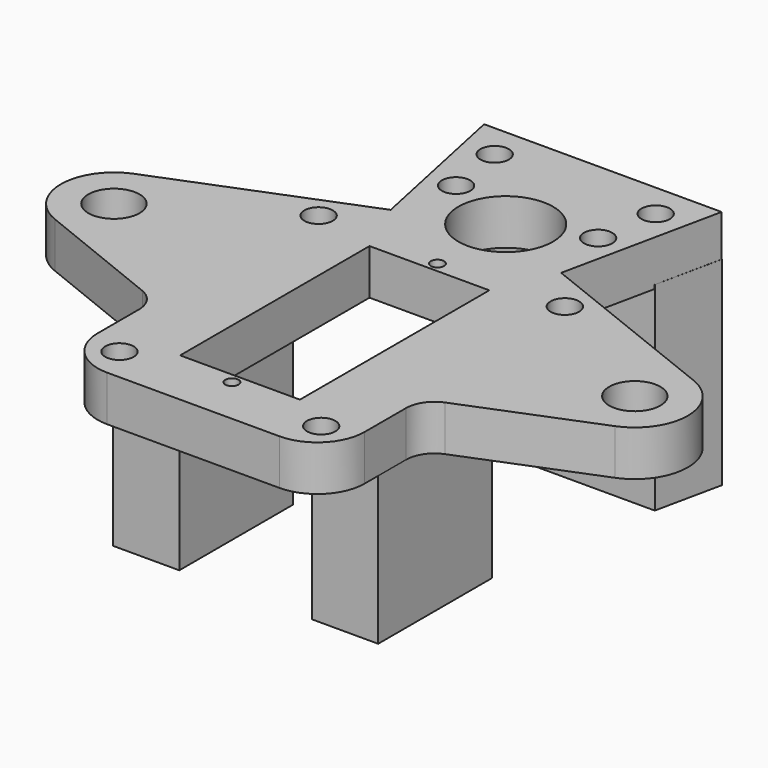
from build123d import *

# Parameters (mm, degrees)
CYLINDER043_R     = 1.5
CYLINDER043_DEPTH = 27
CYLINDER042_R     = 1.5
CYLINDER042_DEPTH = 27
SKETCH012_R       = 5
PAD007_DEPTH      = 30
CYLINDER029_R     = 1.5
CYLINDER029_DEPTH = 10
CYLINDER030_R     = 1.5
CYLINDER030_DEPTH = 10
CYLINDER031_R     = 1.5
CYLINDER031_DEPTH = 10
CYLINDER032_R     = 1.5
CYLINDER032_DEPTH = 11
CYLINDER033_R     = 1.5
CYLINDER033_DEPTH = 11
CYLINDER028_R     = 1.5
CYLINDER028_DEPTH = 10
BOX007_W          = 7
BOX007_H          = 15
BOX007_DEPTH      = 18
PAD006_DEPTH      = 21
BOX006_W          = 7
BOX006_H          = 15
BOX006_DEPTH      = 18
SKETCH016_R       = 2.7
SKETCH016_R_2     = 1.5
SKETCH016_R_3     = 5
SKETCH016_R_4     = 0.7
SKETCH016_W       = 12.65
SKETCH016_H       = 25
PAD009_DEPTH      = 4.8


with BuildPart() as taladro016:
    # Cylinder043 → Cylinder043 (new body)
    with BuildSketch(Plane(origin=(8.5, 26.5, -1.7), x_dir=(1, 0, 0), z_dir=(0, 0, 1))):
        Circle(CYLINDER043_R)
    extrude(amount=CYLINDER043_DEPTH)


with BuildPart() as seg_taladros_a:
    # Cylinder042 → Cylinder042 (new body)
    with BuildSketch(Plane(origin=(-8.5, 26.5, -1.7), x_dir=(1, 0, 0), z_dir=(0, 0, 1))):
        Circle(CYLINDER042_R)
    extrude(amount=CYLINDER042_DEPTH)

    # Fusion021: union Taladro016
    add(taladro016.part)


with BuildPart() as taladro_8mm:
    # Sketch012 → Pad007 (new body)
    with BuildSketch(Plane(origin=(0, 38, 3), x_dir=(1, 0, 0), z_dir=(0, -1, 0))):
        with Locations((0, 10.102227)):
            Circle(SKETCH012_R)
    extrude(amount=PAD007_DEPTH)


with BuildPart() as taladro002:
    # Cylinder029 → Cylinder029 (new body)
    with BuildSketch(Plane(origin=(-10.5, -14, 2.3), x_dir=(1, 0, 0), z_dir=(0, 0, 1))):
        Circle(CYLINDER029_R)
    extrude(amount=CYLINDER029_DEPTH)


with BuildPart() as taladro003:
    # Cylinder030 → Cylinder030 (new body)
    with BuildSketch(Plane(origin=(10.5, -5, 2.3), x_dir=(1, 0, 0), z_dir=(0, 0, 1))):
        Circle(CYLINDER030_R)
    extrude(amount=CYLINDER030_DEPTH)


with BuildPart() as taladro004:
    # Cylinder031 → Cylinder031 (new body)
    with BuildSketch(Plane(origin=(10.5, -14, 2.3), x_dir=(1, 0, 0), z_dir=(0, 0, 1))):
        Circle(CYLINDER031_R)
    extrude(amount=CYLINDER031_DEPTH)


with BuildPart() as taladro005:
    # Cylinder032 → Cylinder032 (new body)
    with BuildSketch(Plane(origin=(-8.5, 26.5, -1.7), x_dir=(1, 0, 0), z_dir=(0, 0, 1))):
        Circle(CYLINDER032_R)
    extrude(amount=CYLINDER032_DEPTH)


with BuildPart() as taladro006:
    # Cylinder033 → Cylinder033 (new body)
    with BuildSketch(Plane(origin=(8.5, 26.5, -1.7), x_dir=(1, 0, 0), z_dir=(0, 0, 1))):
        Circle(CYLINDER033_R)
    extrude(amount=CYLINDER033_DEPTH)


with BuildPart() as taladros_a:
    # Cylinder028 → Cylinder028 (new body)
    with BuildSketch(Plane(origin=(-10.5, -5, 2.3), x_dir=(1, 0, 0), z_dir=(0, 0, 1))):
        Circle(CYLINDER028_R)
    extrude(amount=CYLINDER028_DEPTH)

    # Fusion014: union Taladro002, Taladro003, Taladro004, Taladro005, Taladro006
    add(taladro002.part)
    add(taladro003.part)
    add(taladro004.part)
    add(taladro005.part)
    add(taladro006.part)


with BuildPart() as taladros_a_1:
    # Fusion014 placement: moved
    add(taladros_a.part.moved(Location((0, 0, 1))))


with BuildPart() as cubo007:
    # Box007 → Box007 (new body)
    with BuildSketch(Plane(origin=(7, -17, 3.3), x_dir=(1, 0, 0), z_dir=(0, 0, 1))):
        with Locations((3.5, 7.5)):
            Rectangle(BOX007_W, BOX007_H)
    extrude(amount=BOX007_DEPTH)


with BuildPart() as pad006:
    # Sketch011 → Pad006 (new body)
    with BuildSketch(Plane.XY.offset(-1.6)):
        Polygon((-12.559899, 30.171141), (12.559899, 30.171141), (11.070948, 23.171141), (-11.070948, 23.171141), align=None)
    extrude(amount=PAD006_DEPTH)


with BuildPart() as cut009:
    # Box006 → Box006 (new body)
    with BuildSketch(Plane(origin=(-14, -17, 3.3), x_dir=(1, 0, 0), z_dir=(0, 0, 1))):
        with Locations((3.5, 7.5)):
            Rectangle(BOX006_W, BOX006_H)
    extrude(amount=BOX006_DEPTH)

    # Fusion016: union Cubo007, Pad006
    add(cubo007.part)
    add(pad006.part)

    # Cut007: cut Taladros A
    add(taladros_a_1.part, mode=Mode.SUBTRACT)

    # Cut009: cut Taladro 8mm
    add(taladro_8mm.part, mode=Mode.SUBTRACT)


with BuildPart() as cut010:
    # Sketch016 → Pad009 (new body)
    with BuildSketch(Plane.XY.offset(19)):
        with BuildLine():
            Line((-29.572856, 5.202237), (-9, 13.39959))
            Line((-9, 13.39959), (-12.540941, 30.154421))
            Line((-12.540941, 30.154421), (12.540941, 30.154421))
            Line((9, 13.39959), (12.540941, 30.154421))
            Line((9, 13.39959), (29.570667, 5.203109))
            ThreePointArc((29.587798, -5.196258), (33.099992, 0.009225), (29.570667, 5.203109))
            Line((29.587798, -5.196258), (15.980248, -10.663617))
            ThreePointArc((15.980248, -10.663617), (14.613214, -11.767355), (14.098711, -13.447327))
            Line((14.098711, -13.447327), (14.098711, -18.900571))
            ThreePointArc((9.098711, -23.900571), (12.634245, -22.436105), (14.098711, -18.900571))
            Line((9.098711, -23.900571), (-9.098711, -23.900571))
            ThreePointArc((-14.098711, -18.900571), (-12.634245, -22.436105), (-9.098711, -23.900571))
            Line((-14.098711, -18.900571), (-14.098711, -13.447327))
            ThreePointArc((-14.098711, -13.447327), (-14.613214, -11.767355), (-15.980248, -10.663617))
            Line((-15.980248, -10.663617), (-29.587798, -5.196258))
            ThreePointArc((-29.572856, 5.202237), (-33.099994, 0.008047), (-29.587798, -5.196258))
        make_face()
        with Locations((27.5, 0)):
            Circle(SKETCH016_R, mode=Mode.SUBTRACT)
        with Locations((-27.5, 0)):
            Circle(SKETCH016_R, mode=Mode.SUBTRACT)
        with Locations((10.65, -20.334303)):
            Circle(SKETCH016_R_2, mode=Mode.SUBTRACT)
        with Locations((-10.65, -20.334303)):
            Circle(SKETCH016_R_2, mode=Mode.SUBTRACT)
        with Locations((13, 8.886284)):
            Circle(SKETCH016_R_2, mode=Mode.SUBTRACT)
        with Locations((-13, 8.886284)):
            Circle(SKETCH016_R_2, mode=Mode.SUBTRACT)
        with Locations((7.5, 20.154421)):
            Circle(SKETCH016_R_2, mode=Mode.SUBTRACT)
        with Locations((-7.5, 20.154421)):
            Circle(SKETCH016_R_2, mode=Mode.SUBTRACT)
        with Locations((0, 17.333948)):
            Circle(SKETCH016_R_3, mode=Mode.SUBTRACT)
        with Locations((0, 8.318832)):
            Circle(SKETCH016_R_4, mode=Mode.SUBTRACT)
        with Locations((0, -18.804168)):
            Circle(SKETCH016_R_4, mode=Mode.SUBTRACT)
        with Locations((0, -5.238349)):
            Rectangle(SKETCH016_W, SKETCH016_H, mode=Mode.SUBTRACT)
    extrude(amount=PAD009_DEPTH)

    # Fusion020: union Cut009
    add(cut009.part)

    # Cut010: cut Seg taladros A
    add(seg_taladros_a.part, mode=Mode.SUBTRACT)


solid = cut010.part
